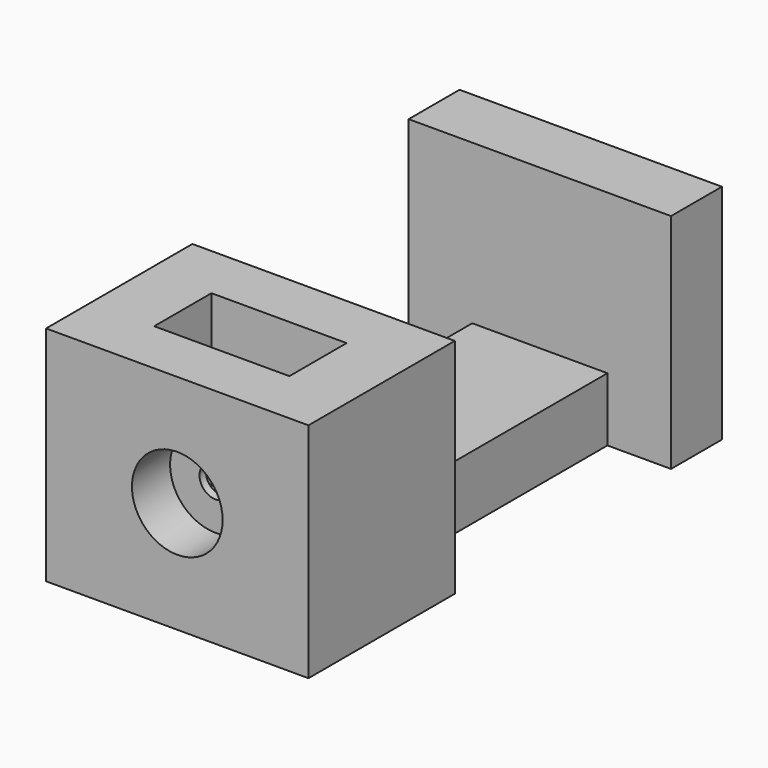
from build123d import *

# Parameters (mm, degrees)
F0_W      = 16.5
F0_H      = 32.5
F1_DEPTH  = 14
F3_W      = 16.5
F3_H      = 17
F4_DEPTH  = 10
F5_W      = 4
F5_H      = 17
F6_DEPTH  = 14.001
F7_W      = 8.5
F7_H      = 4.5
F8_DEPTH  = 14.001
F9_R      = 2.85
F10_DEPTH = 3
F11_R     = 1
F12_DEPTH = 10


with BuildPart() as f1:
    # F0 (on Top) → F1 (new body)
    with BuildSketch(Plane.XY):
        Rectangle(F0_W, F0_H)
    extrude(amount=F1_DEPTH)

    # F3 (on face) → F4 (cut)
    with BuildSketch(Plane.XY.offset(14)):
        with Locations((0, 3.75)):
            Rectangle(F3_W, F3_H)
    extrude(amount=-F4_DEPTH, mode=Mode.SUBTRACT)

    # F5 (on face) → F6 (cut, through all)
    with BuildSketch(Plane(origin=(0, 0, 0), x_dir=(1, 0, 0), z_dir=(0, 0, -1))):
        with Locations((-6.25, -3.75)):
            Rectangle(F5_W, F5_H)
        with Locations((6.25, -3.75)):
            Rectangle(F5_W, F5_H)
    extrude(amount=-F6_DEPTH, mode=Mode.SUBTRACT)

    # F7 (on face) → F8 (cut, through all)
    with BuildSketch(Plane.XY.offset(14)):
        with Locations((0, -10.5)):
            Rectangle(F7_W, F7_H)
    extrude(amount=-F8_DEPTH, mode=Mode.SUBTRACT)

    # F9 (on face) → F10 (cut)
    with BuildSketch(Plane.XZ.offset(16.25)):
        with Locations((0, 7)):
            Circle(F9_R)
    extrude(amount=-F10_DEPTH, mode=Mode.SUBTRACT)

    # F11 (on face) → F12 (cut)
    with BuildSketch(Plane.XZ.offset(13.25)):
        with Locations((0, 7)):
            Circle(F11_R)
    extrude(amount=-F12_DEPTH, mode=Mode.SUBTRACT)


solid = f1.part
